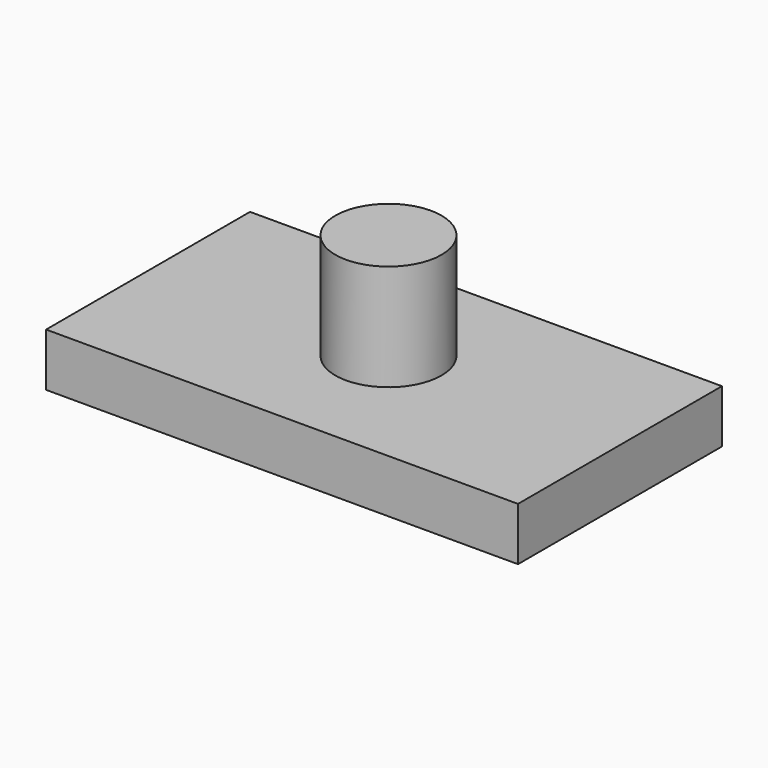
from build123d import *

# Parameters (mm, degrees)
F1_DEPTH = 12.7
F2_W     = 12.7
F2_H     = 25.4


with BuildPart() as f1:
    # F0 (on Top) → F1 (new body)
    with BuildSketch(Plane.XY):
        Polygon((-56.563377, -31.625081), (0, -31.625081), (56.27184, -31.625081), (56.27184, 0), (56.27184, 29.323092), (0, 29.323092), (-56.563377, 29.323092), (-56.563377, 0), align=None)
    extrude(amount=F1_DEPTH)

    # F2 (on Front) → F3 (revolve)
    with BuildSketch(Plane.XZ):
        with Locations((6.35, 25.4)):
            Rectangle(F2_W, F2_H)
    revolve(axis=Axis((0, 0, 25.4), (0, 0, 1)))


solid = f1.part
